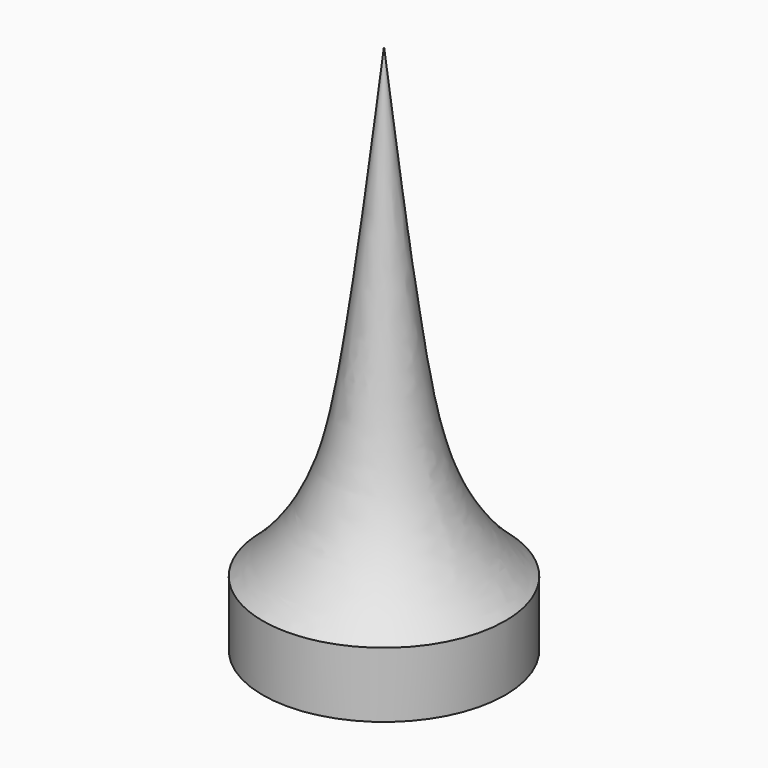
from build123d import *

# Parameters (mm, degrees)
F2_R     = 2.2790991083
F3_DEPTH = 25


with BuildPart() as f1:
    # F0 (on Front) → F1 (revolve)
    with BuildSketch(Plane.XZ):
        with BuildLine():
            Line((-5, 0), (0, 0))
            Line((0, 0), (0, 10))
            add(Edge.make_bspline(
                [(0, 10), (-0.2114057326, 8.1153465365), (-0.568400068, 4.9327904048), (-1.084640953, 2.4134176989), (-2.7047877881, 0.6526270045), (-4.2244472307, 0.2205228249), (-5, 0)],
                knots=[0, 0, 0, 0, 0.332403671, 0.5613198191, 0.7761211363, 1, 1, 1, 1], degree=3))
        make_face()
    revolve(axis=Axis((0, 0, 5), (0, 0, 1)))

    # F2 (on face) → F3 (intersect)
    with BuildSketch(Plane(origin=(0, 0, 0), x_dir=(1, 0, 0), z_dir=(0, 0, -1))):
        Circle(F2_R)
    extrude(amount=-F3_DEPTH, mode=Mode.INTERSECT)


solid = f1.part
